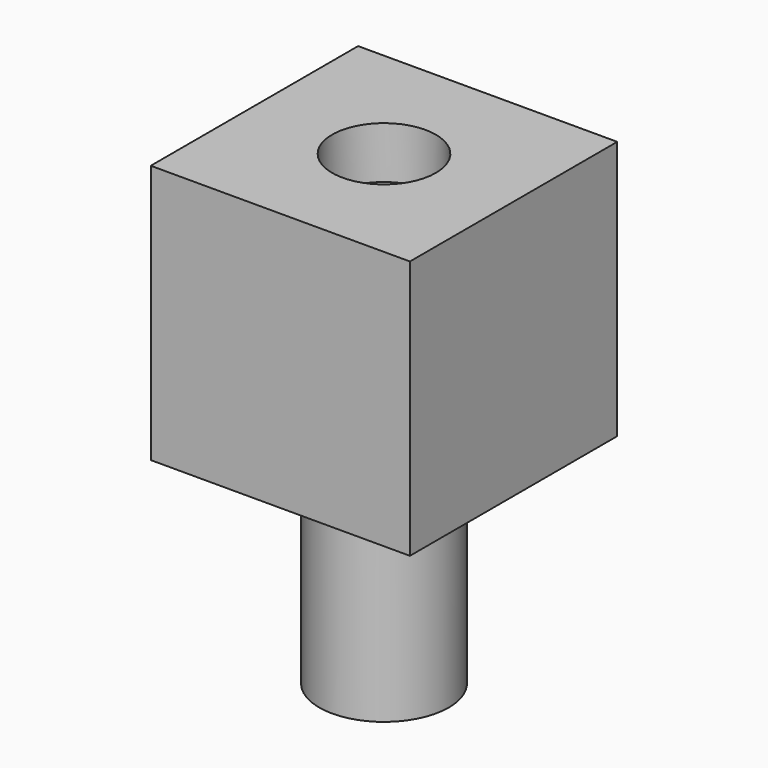
from build123d import *

# Parameters (mm, degrees)
F0_W     = 50
F0_H     = 50
F1_DEPTH = 50
F2_R     = 10
F3_DEPTH = 25
F4_R     = 12.5
F5_DEPTH = 40


with BuildPart() as f1:
    # F0 (on Top) → F1 (new body)
    with BuildSketch(Plane.XY):
        Rectangle(F0_W, F0_H)
    extrude(amount=F1_DEPTH)

    # F2 (on face) → F3 (cut)
    with BuildSketch(Plane.XY.offset(50)):
        Circle(F2_R)
    extrude(amount=-F3_DEPTH, mode=Mode.SUBTRACT)


with BuildPart() as f5:
    # F4 (on Top) → F5 (new body, symmetric)
    with BuildSketch(Plane.XY):
        Circle(F4_R)
    extrude(amount=F5_DEPTH, both=True)


with BuildPart() as f1_1:
    add(f1.part)

    # F6: cut F5
    add(f5.part, mode=Mode.SUBTRACT)


solid = Compound([f5.part, f1_1.part])
